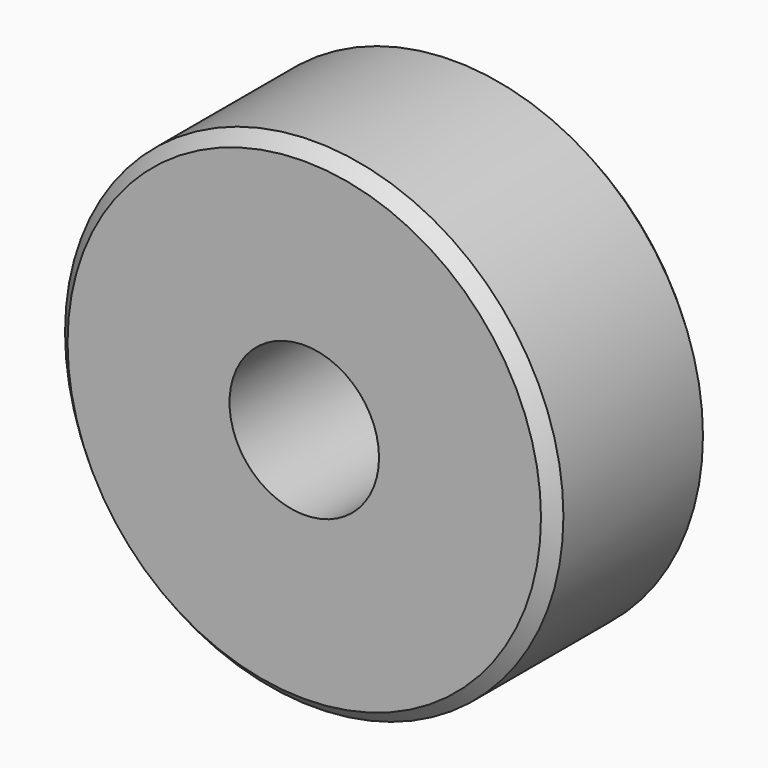
from build123d import *

# Parameters (mm, degrees)
F0_R     = 10
F0_R_2   = 3
F1_DEPTH = 8
F2_SIZE  = 0.5


with BuildPart() as f1:
    # F0 (on Front) → F1 (new body)
    with BuildSketch(Plane.XZ):
        Circle(F0_R)
        Circle(F0_R_2, mode=Mode.SUBTRACT)
    extrude(amount=F1_DEPTH)

    # F2
    f2_edges = [f1.edges().sort_by_distance(p)[0] for p in [
        (-10, -8, 0),
        (-10, 0, 0),
    ]]
    chamfer(f2_edges, length=F2_SIZE)


solid = f1.part
